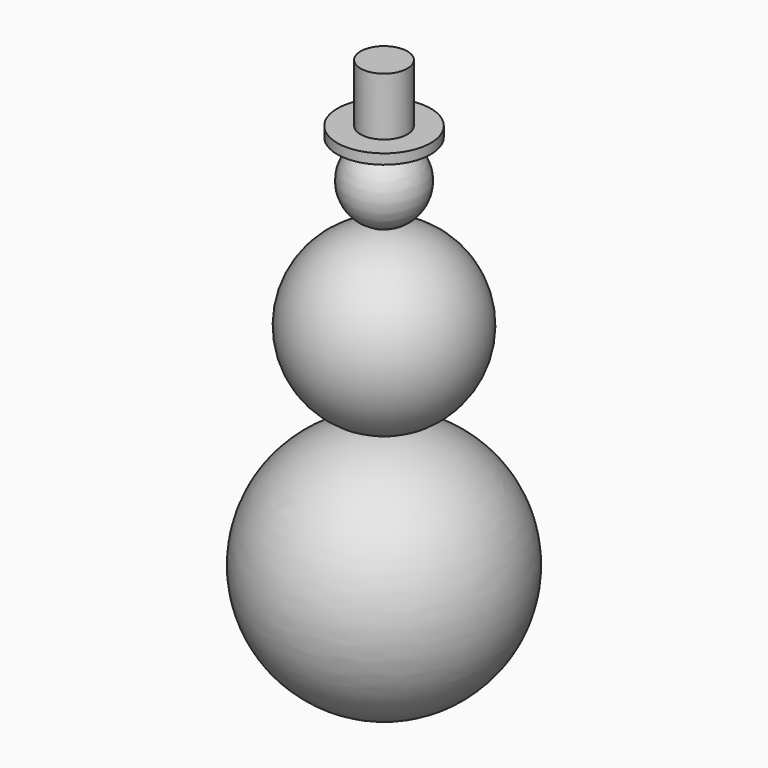
from build123d import *

# Parameters (mm, degrees)
F0_W = 4.678004
F0_H = 11.614353


with BuildPart() as f1:
    # F0 (on Front) → F1 (revolve)
    with BuildSketch(Plane.XZ):
        Polygon((-9.356009, 42.834299), (0, 42.834299), (0, 44.844314), (-4.678004, 44.844314), (-9.356009, 44.844314), align=None)
        with BuildLine():
            ThreePointArc((0, 42.834299), (-7.668613, 35.165686), (0, 27.497074))
            Line((0, 27.497074), (0, 42.834299))
        make_face()
        with BuildLine():
            ThreePointArc((0, 27.10315), (-17.424521, 9.678629), (0, -7.745892))
            Line((0, -7.745892), (0, 27.10315))
        make_face()
        with BuildLine():
            Line((0, -57.156919), (0, -8.01252))
            ThreePointArc((0, -8.01252), (-24.572199, -32.584719), (0, -57.156919))
        make_face()
        with Locations((-2.339002, 50.65149)):
            Rectangle(F0_W, F0_H)
    revolve(axis=Axis((0, 0, -5.161937), (0, 0, -1)))


solid = f1.part
